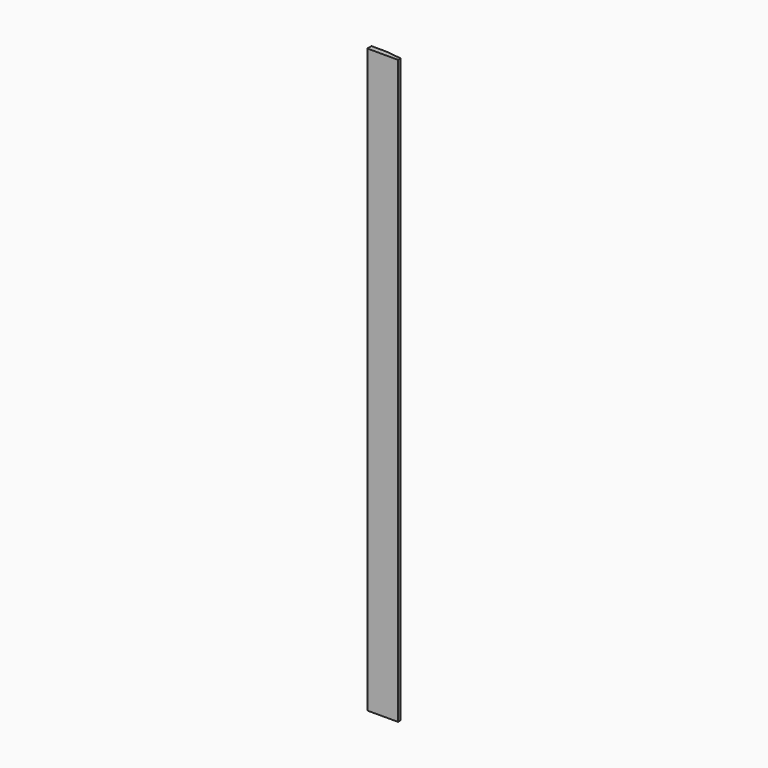
from build123d import *

# Parameters (mm, degrees)
BOX003001_W               = 16
BOX003001_H               = 94
BOX003001_DEPTH           = 1781
BOX003001_PLACEMENT_ANGLE = 82.999975
BOX003_W                  = 16
BOX003_H                  = 94
BOX003_DEPTH              = 1781


with BuildPart() as q002:
    # Box003001 → Box003001 (new body)
    with BuildSketch(Plane.XY):
        with Locations((8, 47)):
            Rectangle(BOX003001_W, BOX003001_H)
    extrude(amount=BOX003001_DEPTH)


with BuildPart() as q002_1:
    # Box003001 placement: moved
    add(q002.part.moved(Location((2144, 1070, 313.5))).rotate(Axis((2144, 1070, 313.5), (0, 0, 1)), BOX003001_PLACEMENT_ANGLE))


with BuildPart() as cut:
    # Box003 → Box003 (new body)
    with BuildSketch(Plane(origin=(2144, 1060, 313.5), x_dir=(0, 1, 0), z_dir=(0, 0, 1))):
        with Locations((8, 47)):
            Rectangle(BOX003_W, BOX003_H)
    extrude(amount=BOX003_DEPTH)

    # Cut: cut Q002
    add(q002_1.part, mode=Mode.SUBTRACT)


with BuildPart() as cut_1:
    # Cut placement: moved
    add(cut.part.moved(Location((-15.5, 0, 0))))


solid = cut_1.part
